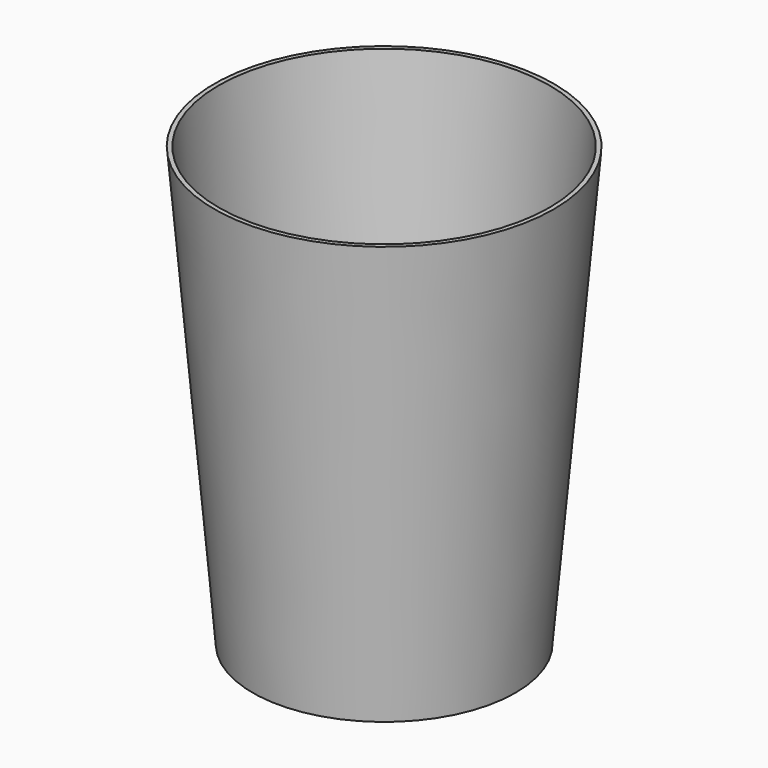
from build123d import *

# Parameters (mm, degrees)
F0_R     = 30
F1_DEPTH = 100
F1_TAPER = -5
F2_T     = -1


with BuildPart() as f1:
    # F0 (on Top) → F1 (new body)
    with BuildSketch(Plane.XY):
        Circle(F0_R)
    extrude(amount=F1_DEPTH, taper=F1_TAPER)

    # F2
    f2_openings = [f1.faces().sort_by_distance(p)[0] for p in [
        (0, 0, 100),
    ]]
    offset(amount=F2_T, openings=f2_openings, kind=Kind.INTERSECTION)


solid = f1.part
